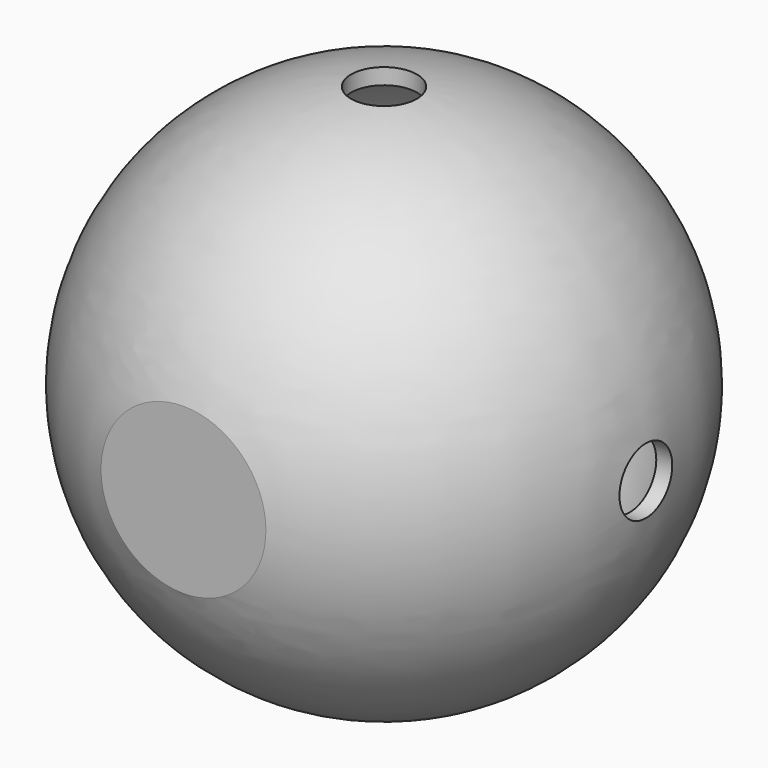
from build123d import *

# Parameters (mm, degrees)
F2_R          = 3.175
F3_DEPTH      = 25.401
F3_DEPTH_BACK = 25.401
F4_W          = 5.873753
F4_H          = 62.273792
F5_DEPTH      = 25.201781
F5_DEPTH_BACK = 25.201781


with BuildPart() as f1:
    # F0 (on Front) → F1 (revolve)
    with BuildSketch(Plane.XZ):
        with BuildLine():
            ThreePointArc((3.175, 23.663955), (23.876, 0), (3.175, -23.663955))
            Line((3.175, -23.663955), (3.175, -25.200781))
            ThreePointArc((3.175, -25.200781), (25.4, 0), (3.175, 25.200781))
            Line((3.175, 25.200781), (3.175, 23.663955))
        make_face()
    revolve(axis=Axis((0, 0, 26.901685), (0, 0, 1)))

    # F2 (on Right) → F3 (cut, two sides)
    with BuildSketch(Plane.YZ) as f3_sk:
        Circle(F2_R)
    extrude(amount=-F3_DEPTH, mode=Mode.SUBTRACT)
    extrude(f3_sk.sketch, amount=F3_DEPTH_BACK, mode=Mode.SUBTRACT)

    # F4 (on Right) → F5 (cut, two sides)
    with BuildSketch(Plane.YZ) as f5_sk:
        with Locations((-27.066876, 0.049267)):
            Rectangle(F4_W, F4_H)
    extrude(amount=-F5_DEPTH, mode=Mode.SUBTRACT)
    extrude(f5_sk.sketch, amount=F5_DEPTH_BACK, mode=Mode.SUBTRACT)


solid = f1.part
